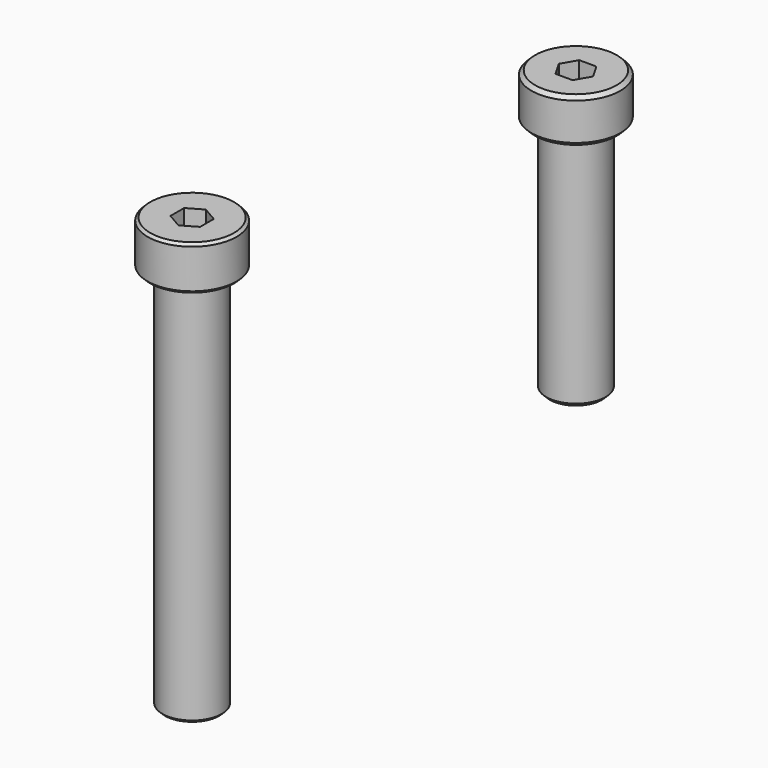
from build123d import *

# Parameters (mm, degrees)
F0_W     = 3.175
F0_H     = 4.7625
F3_DEPTH = 3.175
F4_W     = 3.175
F4_H     = 4.7752
F4_W_2   = 1.5875
F4_H_2   = 25.4
F6_SIZE  = 0.396875
F8_DEPTH = 4.7752


with BuildPart() as f1:
    # F0 (on Front) → F1 (revolve)
    with BuildSketch(Plane.XZ):
        with Locations((1.5875, 8.5633619311)):
            Rectangle(F0_W, F0_H)
        Polygon((4.4818669962, 10.9446119311), (3.175, 10.9446119311), (3.175, 6.1821119311), (4.4818669962, 6.1821119311), (4.7625, 6.4627449349), (4.7625, 10.6639789274), align=None)
        Polygon((3.175, 6.1821119311), (0, 6.1821119311), (0, -35.0928880689), (2.8943669962, -35.0928880689), (3.175, -34.8122550651), align=None)
    revolve(axis=Axis((0, 0, -12.0741380689), (0, 0, -1)))

    # F2 (on face) → F3 (cut)
    with BuildSketch(Plane.XY.offset(10.9446119311)):
        Polygon((1.5875, 0.9165435523), (0, 1.8330871047), (-1.5875, 0.9165435523), (-1.5875, -0.9165435523), (0, -1.8330871047), (1.5875, -0.9165435523), align=None)
    extrude(amount=-F3_DEPTH, mode=Mode.SUBTRACT)


with BuildPart() as f5:
    # F4 (on Right) → F5 (revolve)
    with BuildSketch(Plane.YZ):
        with Locations((52.9460793122, 1.5609115854)):
            Rectangle(F4_W, F4_H)
        with Locations((55.3273293122, 1.5609115854)):
            Rectangle(F4_W_2, F4_H)
        with Locations((52.9460793122, -13.5266884146)):
            Rectangle(F4_W, F4_H_2)
    revolve(axis=Axis((0, 51.3585793122, -11.1390884146), (0, 0, -1)))

    # F6
    f6_edges = [f5.edges().sort_by_distance(p)[0] for p in [
        (0, 46.596079, 3.948512),
        (0, 46.596079, -0.826688),
        (0, 48.183579, -26.226688),
    ]]
    chamfer(f6_edges, length=F6_SIZE)

    # F7 (on face) → F8 (cut)
    with BuildSketch(Plane.XY.offset(3.9485115854)):
        Polygon((0.9165435523, 52.9460793122), (-0.9165435523, 52.9460793122), (-1.8330871047, 51.3585793122), (-0.9165435523, 49.7710793122), (0.9165435523, 49.7710793122), (1.8330871047, 51.3585793122), align=None)
    extrude(amount=-F8_DEPTH, mode=Mode.SUBTRACT)


solid = Compound([f1.part, f5.part])
